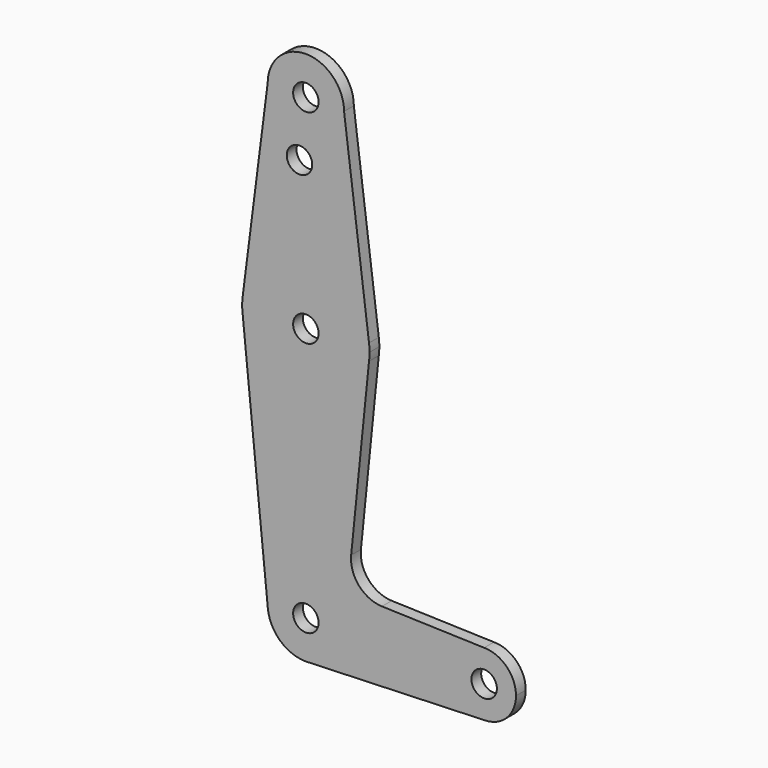
from build123d import *

# Parameters (mm, degrees)
F0_R     = 3.175
F1_DEPTH = 3.048


with BuildPart() as f1:
    # F0 (on Front) → F1 (new body)
    with BuildSketch(Plane.XZ):
        with BuildLine():
            ThreePointArc((9.525, 114.3), (0, 123.825), (-9.525, 114.3))
            ThreePointArc((-9.525, 114.3), (0, 104.775), (9.525, 114.3))
        make_face()
        with Locations((0, 114.3)):
            Circle(F0_R, mode=Mode.SUBTRACT)
        with BuildLine():
            Line((-9.525, 114.3), (-15.747457, 65.508289))
            ThreePointArc((-15.747457, 65.508289), (0, 79.375), (15.747457, 65.508289))
            Line((15.747457, 65.508289), (9.525, 114.3))
            ThreePointArc((9.525, 114.3), (0, 104.775), (-9.525, 114.3))
        make_face()
        with Locations((-1.5875, 100.0252)):
            Circle(F0_R, mode=Mode.SUBTRACT)
        with BuildLine():
            ThreePointArc((-15.747457, 65.508289), (-15.875, 63.5), (-15.747457, 61.491711))
            ThreePointArc((-15.747457, 61.491711), (0, 47.625), (15.747457, 61.491711))
            ThreePointArc((15.747457, 61.491711), (15.843082, 62.493832), (15.875, 63.5))
            ThreePointArc((15.875, 63.5), (15.843082, 64.506168), (15.747457, 65.508289))
            ThreePointArc((15.747457, 65.508289), (0, 79.375), (-15.747457, 65.508289))
        make_face()
        with Locations((0, 63.5)):
            Circle(F0_R, mode=Mode.SUBTRACT)
        with BuildLine():
            ThreePointArc((-9.477341, -0.951647), (-0.47642, 9.513078), (9.525, 0))
            ThreePointArc((9.525, 0), (6.970557, -6.491299), (0.677344, -9.500886))
            Line((0.677344, -9.500886), (44.732405, -7.932475))
            ThreePointArc((44.732405, -7.932475), (36.513756, -0.141225), (44.45, 7.9375))
            Line((44.45, 7.9375), (18.955113, 8.73563))
            ThreePointArc((18.955113, 8.73563), (13.223339, 11.443725), (11.29407, 17.482344))
            Line((11.29407, 17.482344), (15.747457, 61.491711))
            ThreePointArc((15.747457, 61.491711), (0, 47.625), (-15.747457, 61.491711))
            Line((-15.747457, 61.491711), (-9.477341, -0.951647))
        make_face()
        with BuildLine():
            ThreePointArc((0.677344, -9.500886), (6.970557, -6.491299), (9.525, 0))
            ThreePointArc((9.525, 0), (-0.47642, 9.513078), (-9.477341, -0.951647))
            ThreePointArc((-9.477341, -0.951647), (-6.389882, -7.063641), (0, -9.525))
            Line((0, -9.525), (0.677344, -9.500886))
        make_face()
        Circle(F0_R, mode=Mode.SUBTRACT)
        with BuildLine():
            ThreePointArc((44.45, 7.9375), (36.513756, -0.141225), (44.732405, -7.932475))
            ThreePointArc((44.732405, -7.932475), (50.161633, -5.51191), (52.3875, 0))
            ThreePointArc((52.3875, 0), (50.06266, 5.61266), (44.45, 7.9375))
        make_face()
        with Locations((44.45, 0)):
            Circle(F0_R, mode=Mode.SUBTRACT)
    extrude(amount=F1_DEPTH)


solid = f1.part
